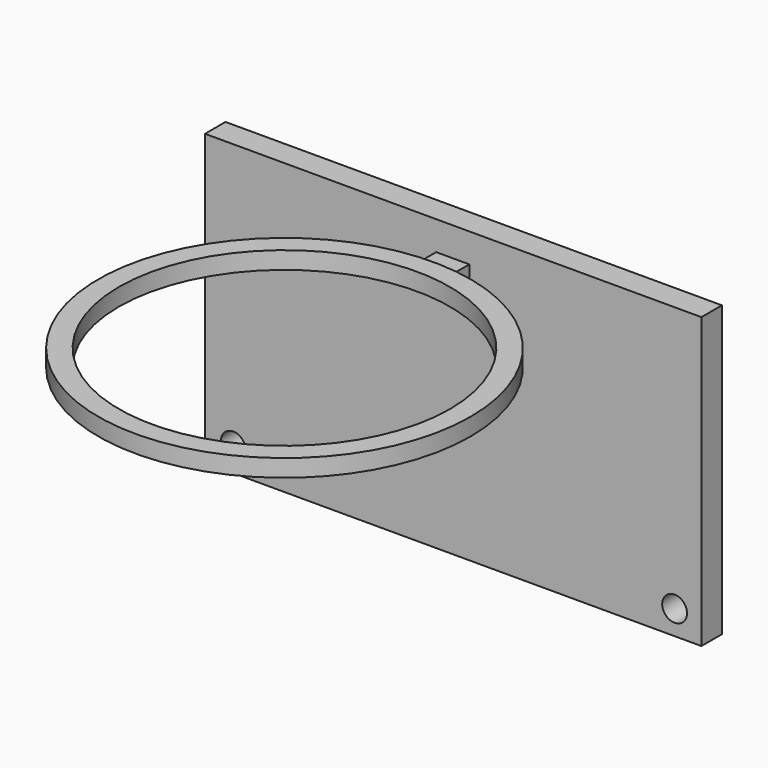
from build123d import *

# Parameters (mm, degrees)
F0_R          = 57.15
F0_R_2        = 50.8
F1_DEPTH      = 5.334
F3_START      = -64.262
F2_W          = 152.4
F2_H          = 88.9
F2_R          = 3.81
F3_DEPTH      = 7.874
F4_W          = 13.6420466006
F4_H          = 3.5441415384
F5_DEPTH      = 5.334
F5_DEPTH_BACK = 4.826


with BuildPart() as f1:
    # F0 (on Top) → F1 (new body)
    with BuildSketch(Plane.XY):
        Circle(F0_R)
        Circle(F0_R_2, mode=Mode.SUBTRACT)
    extrude(amount=F1_DEPTH)


with BuildPart() as f3:
    # F2 (on Front) → F3 (new body)
    with BuildSketch(Plane.XZ.offset(F3_START)):
        with Locations((0.3900220513, -31.9978966594)):
            Rectangle(F2_W, F2_H)
        with Locations((-67.1286657453, -69.0067708492)):
            Circle(F2_R, mode=Mode.SUBTRACT)
        with Locations((68.3617144823, -69.0067708492)):
            Circle(F2_R, mode=Mode.SUBTRACT)
    extrude(amount=-F3_DEPTH)


with BuildPart() as f5:
    # F4 (on Right) → F5 (new body, two sides)
    with BuildSketch(Plane.YZ) as f5_sk:
        with Locations((60.7255827636, 1.7720707692)):
            Rectangle(F4_W, F4_H)
    extrude(amount=F5_DEPTH)
    extrude(f5_sk.sketch, amount=-F5_DEPTH_BACK)


solid = Compound([f1.part, f3.part, f5.part])
